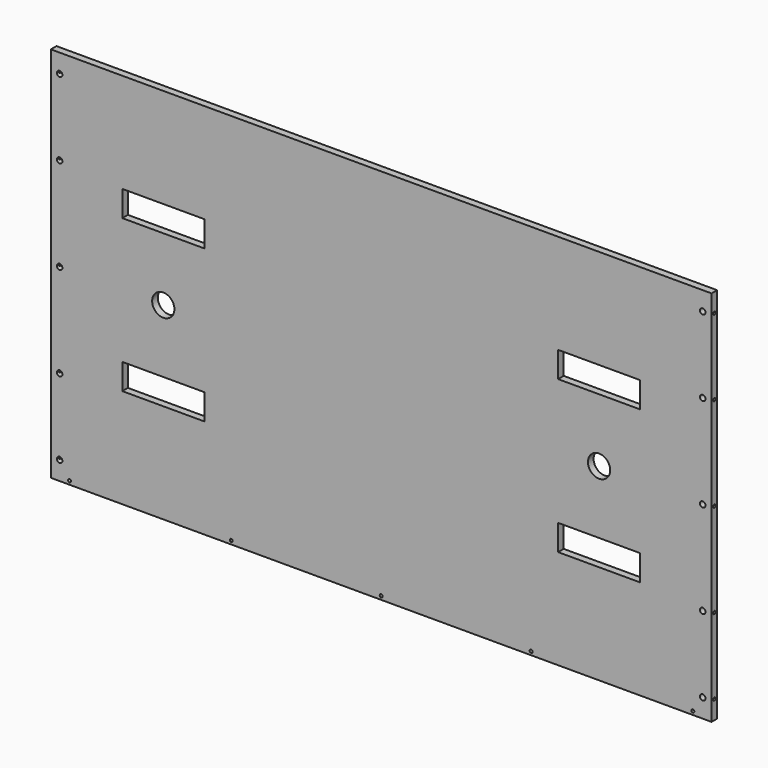
from build123d import *

# Parameters (mm, degrees)
F0_W      = 1790.7
F0_H      = 1022.35
F1_DEPTH  = 19.05
F2_W      = 111.125
F2_H      = 34.925
F2_R      = 30.1625
F3_DEPTH  = 25.4
F5_D      = 15.0114
F5_DEPTH  = 14.224
F5_TIP    = 4.5098795482
F7_D      = 8.001
F7_DEPTH  = 14.224
F7_TIP    = 2.4037429064
F9_D      = 8.001
F9_DEPTH  = 25.4
F9_TIP    = 2.4037429064
F11_D     = 8.001
F11_DEPTH = 25.4
F11_TIP   = 2.4037429064


with BuildPart() as f1:
    # F0 (on Front) → F1 (new body)
    with BuildSketch(Plane.XZ):
        Rectangle(F0_W, F0_H)
    extrude(amount=F1_DEPTH)

    # F2 (on face) → F3 (cut)
    with BuildSketch(Plane.XZ.offset(19.05)):
        Polygon((-479.425, 241.3), (-590.55, 241.3), (-590.55, 206.375), (-701.675, 206.375), (-701.675, 171.45), (-479.425, 171.45), align=None)
        with Locations((-646.1125, 223.8375)):
            Rectangle(F2_W, F2_H)
        Polygon((590.55, 206.375), (590.55, 241.3), (479.425, 241.3), (479.425, 171.45), (701.675, 171.45), (701.675, 206.375), align=None)
        with Locations((646.1125, 223.8375)):
            Rectangle(F2_W, F2_H)
        with Locations((590.55, 0)):
            Circle(F2_R)
        with BuildLine():
            ThreePointArc((-560.3875, 0), (-590.55, 30.1625), (-620.7125, 0))
            ThreePointArc((-620.7125, 0), (-590.55, -30.1625), (-560.3875, 0))
        make_face()
        Polygon((-701.675, -171.45), (-701.675, -206.375), (-590.55, -206.375), (-590.55, -241.3), (-479.425, -241.3), (-479.425, -171.45), align=None)
        with Locations((-646.1125, -223.8375)):
            Rectangle(F2_W, F2_H)
        Polygon((590.55, -206.375), (701.675, -206.375), (701.675, -171.45), (479.425, -171.45), (479.425, -241.3), (590.55, -241.3), align=None)
        with Locations((646.1125, -223.8375)):
            Rectangle(F2_W, F2_H)
    extrude(amount=-F3_DEPTH, mode=Mode.SUBTRACT)

    # F5
    with Locations(Plane.XZ.offset(19.05)):
        with Locations((-871.474, 460.375), (-871.474, 0), (-871.474, -460.375), (871.474, -460.375), (871.474, 0), (871.474, 460.375), (-871.474, 254), (-871.474, -254), (871.474, 254), (871.474, -254)):
            Hole(F5_D / 2, depth=F5_DEPTH)
            with Locations((0, 0, -(F5_DEPTH + F5_TIP / 2))):  # 118° drill point
                Cone(0, F5_D / 2, F5_TIP, mode=Mode.SUBTRACT)

    # F7
    with Locations(Plane.XZ.offset(19.05)):
        with Locations((-844.55, -501.65), (-406.4, -501.65), (0, -501.65), (406.4, -501.65), (844.55, -501.65)):
            Hole(F7_D / 2, depth=F7_DEPTH)
            with Locations((0, 0, -(F7_DEPTH + F7_TIP / 2))):  # 118° drill point
                Cone(0, F7_D / 2, F7_TIP, mode=Mode.SUBTRACT)

    # F9
    with Locations(Plane.YZ.offset(895.35)):
        with Locations((-9.525, 460.375), (-9.525, 254), (-9.525, 0), (-9.525, -254), (-9.525, -460.375)):
            Hole(F9_D / 2, depth=F9_DEPTH)
            with Locations((0, 0, -(F9_DEPTH + F9_TIP / 2))):  # 118° drill point
                Cone(0, F9_D / 2, F9_TIP, mode=Mode.SUBTRACT)

    # F11
    with Locations(Plane(origin=(-895.35, 0, 0), x_dir=(0, -1, 0), z_dir=(-1, 0, 0))):
        with Locations((9.525, 460.375), (9.525, 254), (9.525, 0), (9.525, -254), (9.525, -460.375)):
            Hole(F11_D / 2, depth=F11_DEPTH)
            with Locations((0, 0, -(F11_DEPTH + F11_TIP / 2))):  # 118° drill point
                Cone(0, F11_D / 2, F11_TIP, mode=Mode.SUBTRACT)


solid = f1.part
